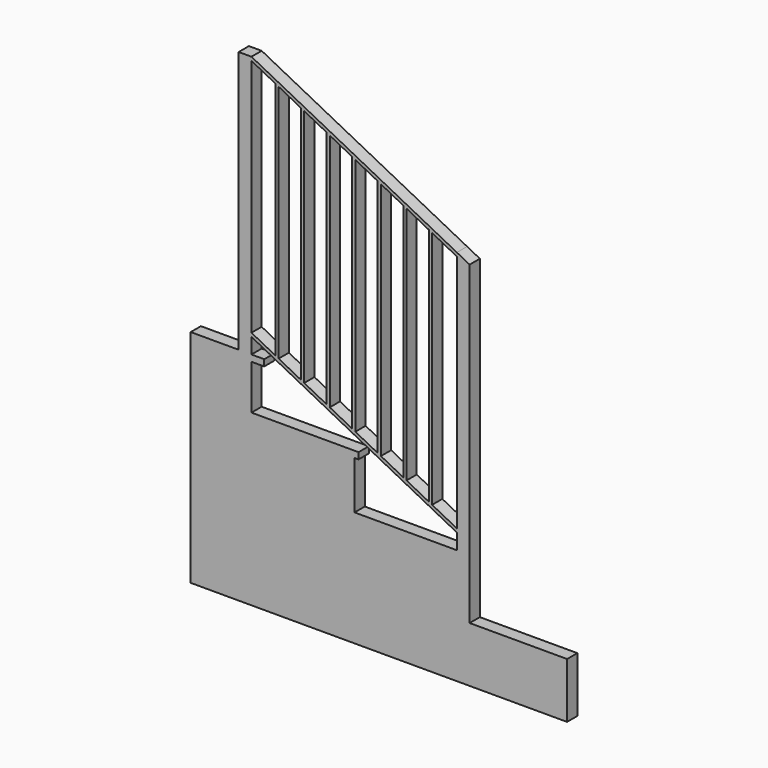
from build123d import *

# Parameters (mm, degrees)
F0_W     = 15.875
F0_H     = 25.4
F0_W_2   = 50.8
F0_W_3   = 19.05
F1_DEPTH = 50.8


with BuildPart() as f1:
    # F0 (on Front) → F1 (new body)
    with BuildSketch(Plane.XZ):
        Polygon((336.64445, 978.200602), (336.64445, 27.277821), (349.34445, 20.754864), (349.34445, 971.677645), align=None)
        Polygon((438.24445, 926.016945), (438.24445, -24.905837), (450.94445, -31.428794), (450.94445, 919.493988), align=None)
        Polygon((539.84445, 873.833287), (539.84445, -77.089494), (552.54445, -83.612451), (552.54445, 867.31033), align=None)
        Polygon((641.44445, 821.64963), (641.44445, -129.273152), (654.14445, -135.796109), (654.14445, 815.126672), align=None)
        Polygon((743.04445, -181.456809), (755.74445, -187.979767), (755.74445, 762.943015), (743.04445, 769.465972), align=None)
        Polygon((844.64445, -233.640467), (857.34445, -240.163424), (857.34445, 710.759357), (844.64445, 717.282314), align=None)
        Polygon((946.24445, -285.824125), (958.94445, -292.347082), (958.94445, 658.5757), (946.24445, 665.098657), align=None)
        Polygon((1057.36945, -342.9), (1057.36945, -357.177219), (1057.36945, -419.1), (1076.41945, -419.1), (1076.41945, -444.5), (1057.36945, -444.5), (1057.36945, -657.225), (1108.16945, -657.225), (1108.16945, 596.208171), (1057.36945, 622.3), (1057.36945, 608.022781), align=None)
        Polygon((1057.36945, 622.3), (241.39445, 1041.4), (241.39445, 1027.122781), (336.64445, 978.200602), (349.34445, 971.677645), (438.24445, 926.016945), (450.94445, 919.493988), (539.84445, 873.833287), (552.54445, 867.31033), (641.44445, 821.64963), (654.14445, 815.126672), (743.04445, 769.465972), (755.74445, 762.943015), (844.64445, 717.282314), (857.34445, 710.759357), (946.24445, 665.098657), (958.94445, 658.5757), (1057.36945, 608.022781), align=None)
        Polygon((190.59445, 1041.4), (190.59445, 0), (241.39445, 0), (241.39445, 61.922781), (241.39445, 76.2), (241.39445, 1027.122781), (241.39445, 1041.4), align=None)
        Polygon((241.39445, 76.2), (241.39445, 61.922781), (1057.36945, -357.177219), (1057.36945, -342.9), (958.94445, -292.347082), (946.24445, -285.824125), (857.34445, -240.163424), (844.64445, -233.640467), (755.74445, -187.979767), (743.04445, -181.456809), (654.14445, -135.796109), (641.44445, -129.273152), (552.54445, -83.612451), (539.84445, -77.089494), (450.94445, -31.428794), (438.24445, -24.905837), (349.34445, 20.754864), (336.64445, 27.277821), align=None)
        Polygon((190.59445, 0), (0, 0), (0, -877.176762), (1495.213354, -877.176762), (1495.213354, -657.225), (1108.16945, -657.225), (1057.36945, -657.225), (1057.36945, -444.5), (1057.36945, -419.1), (650.96945, -419.1), (650.96945, -228.6), (650.96945, -203.2), (241.39445, -203.2), (241.39445, -25.4), (241.39445, 0), align=None)
        with Locations((658.90695, -215.9)):
            Rectangle(F0_W, F0_H)
        with Locations((266.79445, -12.7)):
            Rectangle(F0_W_2, F0_H)
        with Locations((1066.89445, -431.8)):
            Rectangle(F0_W_3, F0_H)
    extrude(amount=F1_DEPTH)


solid = f1.part
